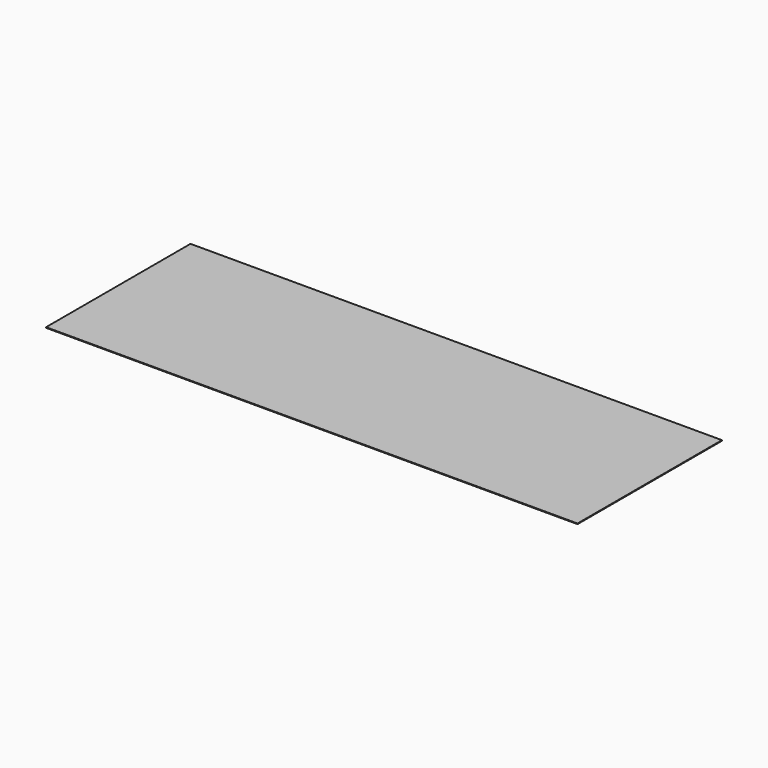
from build123d import *

# Parameters (mm, degrees)
F0_W     = 2692.4
F0_H     = 914.4
F1_DEPTH = 3.175


with BuildPart() as f1:
    # F0 (on Top) → F1 (new body)
    with BuildSketch(Plane.XY):
        Rectangle(F0_W, F0_H)
    extrude(amount=F1_DEPTH)

    # F4: sweep along a path in F2
    with BuildLine(Plane(origin=(0, 0, 0), x_dir=(1, 0, 0), z_dir=(0, 0, -1))) as f4_path:
        Line((-1295.4, 247.65), (-1295.4, -247.65))
        Line((-1295.4, -247.65), (1295.4, -247.65))
        Line((1295.4, -247.65), (1295.4, 247.65))
        Line((1295.4, 247.65), (-1295.4, 247.65))
    # F3 (on Front) → F4 (sweep)
    with BuildSketch(Plane.XZ):
        with BuildLine():
            Line((-1295.4, -25.4), (-1295.4, 0))
            Line((-1295.4, 0), (-1320.8, 0))
            Line((-1320.8, 0), (-1320.8, -3.175))
            Line((-1320.8, -3.175), (-1301.75, -3.175))
            ThreePointArc((-1301.75, -3.175), (-1299.5049359697, -4.1049359697), (-1298.575, -6.35))
            Line((-1298.575, -6.35), (-1298.575, -25.4))
            Line((-1298.575, -25.4), (-1295.4, -25.4))
        make_face()
    sweep(path=f4_path.line, transition=Transition.RIGHT)


solid = f1.part
